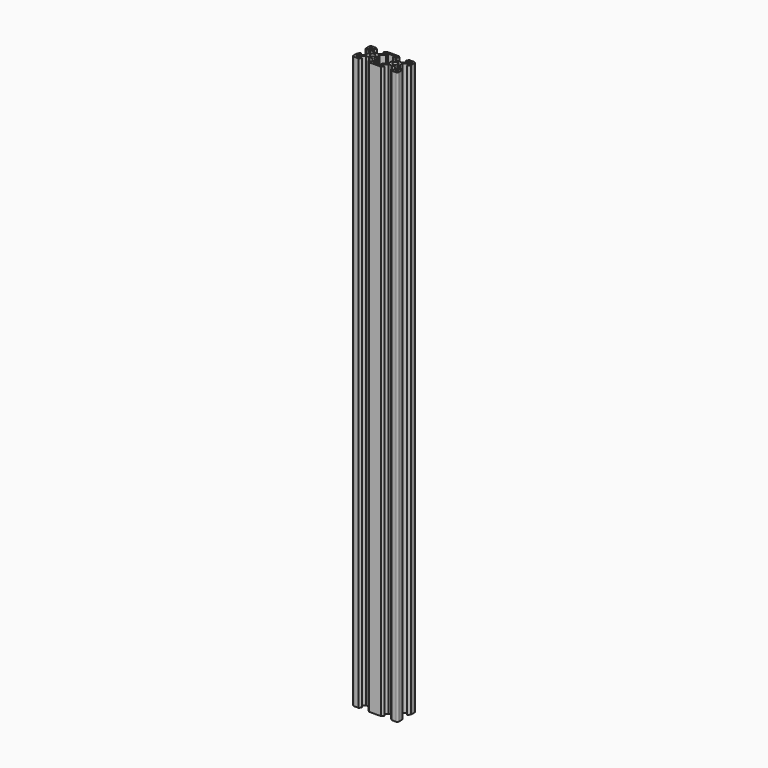
from build123d import *

# Parameters (mm, degrees)
F0_R     = 2.1
F1_DEPTH = 505


with BuildPart() as f1:
    # F0 (on Top) → F1 (new body)
    with BuildSketch(Plane.XY):
        with BuildLine():
            Line((4.64, -10), (8.5, -10))
            Line((8.5, -10), (11.5, -10))
            Line((11.5, -10), (15.36, -10))
            Line((15.36, -10), (17.16, -8.2))
            Line((17.16, -8.2), (14.50066, -8.2))
            Line((14.50066, -8.2), (14.50066, -6.56))
            Line((14.50066, -6.56), (17.16, -3.90066))
            Line((17.16, -3.90066), (19.75, -3.90066))
            Line((19.75, -3.90066), (20, -3.65066))
            Line((20, -3.65066), (20.25, -3.90066))
            Line((20.25, -3.90066), (22.84, -3.90066))
            Line((22.84, -3.90066), (25.49934, -6.56))
            Line((25.49934, -6.56), (25.49934, -8.2))
            Line((25.49934, -8.2), (22.84, -8.2))
            Line((22.84, -8.2), (24.64, -10))
            Line((24.64, -10), (28.5, -10))
            ThreePointArc((28.5, -10), (29.56066, -9.56066), (30, -8.5))
            Line((30, -8.5), (30, -4.64))
            Line((30, -4.64), (28.2, -2.84))
            Line((28.2, -2.84), (28.2, -5.49934))
            Line((28.2, -5.49934), (26.56, -5.49934))
            Line((26.56, -5.49934), (23.90066, -2.84))
            Line((23.90066, -2.84), (23.90066, -0.25))
            Line((23.90066, -0.25), (23.65066, 0))
            Line((23.65066, 0), (23.90066, 0.25))
            Line((23.90066, 0.25), (23.90066, 2.84))
            Line((23.90066, 2.84), (26.56, 5.49934))
            Line((26.56, 5.49934), (28.2, 5.49934))
            Line((28.2, 5.49934), (28.2, 2.84))
            Line((28.2, 2.84), (30, 4.64))
            Line((30, 4.64), (30, 8.5))
            ThreePointArc((30, 8.5), (29.56066, 9.56066), (28.5, 10))
            Line((28.5, 10), (24.64, 10))
            Line((24.64, 10), (22.84, 8.2))
            Line((22.84, 8.2), (25.49934, 8.2))
            Line((25.49934, 8.2), (25.49934, 6.56))
            Line((25.49934, 6.56), (22.84, 3.90066))
            Line((22.84, 3.90066), (20.25, 3.90066))
            Line((20.25, 3.90066), (20, 3.65066))
            Line((20, 3.65066), (19.75, 3.90066))
            Line((19.75, 3.90066), (17.16, 3.90066))
            Line((17.16, 3.90066), (14.50066, 6.56))
            Line((14.50066, 6.56), (14.50066, 8.2))
            Line((14.50066, 8.2), (17.16, 8.2))
            Line((17.16, 8.2), (15.36, 10))
            Line((15.36, 10), (11.5, 10))
            Line((11.5, 10), (8.5, 10))
            Line((8.5, 10), (4.64, 10))
            Line((4.64, 10), (2.84, 8.2))
            Line((2.84, 8.2), (5.49934, 8.2))
            Line((5.49934, 8.2), (5.49934, 6.56))
            Line((5.49934, 6.56), (2.84, 3.90066))
            Line((2.84, 3.90066), (0.25, 3.90066))
            Line((0.25, 3.90066), (0, 3.65066))
            Line((0, 3.65066), (-0.25, 3.90066))
            Line((-0.25, 3.90066), (-2.84, 3.90066))
            Line((-2.84, 3.90066), (-5.49934, 6.56))
            Line((-5.49934, 6.56), (-5.49934, 8.2))
            Line((-5.49934, 8.2), (-2.84, 8.2))
            Line((-2.84, 8.2), (-4.64, 10))
            Line((-4.64, 10), (-8.5, 10))
            ThreePointArc((-8.5, 10), (-9.56066, 9.56066), (-10, 8.5))
            Line((-10, 8.5), (-10, 4.64))
            Line((-10, 4.64), (-8.2, 2.84))
            Line((-8.2, 2.84), (-8.2, 5.49934))
            Line((-8.2, 5.49934), (-6.56, 5.49934))
            Line((-6.56, 5.49934), (-3.90066, 2.84))
            Line((-3.90066, 2.84), (-3.90066, 0.25))
            Line((-3.90066, 0.25), (-3.65066, 0))
            Line((-3.65066, 0), (-3.90066, -0.25))
            Line((-3.90066, -0.25), (-3.90066, -2.84))
            Line((-3.90066, -2.84), (-6.56, -5.49934))
            Line((-6.56, -5.49934), (-8.2, -5.49934))
            Line((-8.2, -5.49934), (-8.2, -2.84))
            Line((-8.2, -2.84), (-10, -4.64))
            Line((-10, -4.64), (-10, -8.5))
            ThreePointArc((-10, -8.5), (-9.56066, -9.56066), (-8.5, -10))
            Line((-8.5, -10), (-4.64, -10))
            Line((-4.64, -10), (-2.84, -8.2))
            Line((-2.84, -8.2), (-5.49934, -8.2))
            Line((-5.49934, -8.2), (-5.49934, -6.56))
            Line((-5.49934, -6.56), (-2.84, -3.90066))
            Line((-2.84, -3.90066), (-0.25, -3.90066))
            Line((-0.25, -3.90066), (0, -3.65066))
            Line((0, -3.65066), (0.25, -3.90066))
            Line((0.25, -3.90066), (2.84, -3.90066))
            Line((2.84, -3.90066), (5.49934, -6.56))
            Line((5.49934, -6.56), (5.49934, -8.2))
            Line((5.49934, -8.2), (2.84, -8.2))
            Line((2.84, -8.2), (4.64, -10))
        make_face()
        Polygon((-6.56934, -7.63), (-6.56934, -8.2), (-8.2, -8.2), (-8.2, -6.56934), (-7.63, -6.56934), align=None, mode=Mode.SUBTRACT)
        Polygon((27.63, -6.56934), (28.2, -6.56934), (28.2, -8.2), (26.56934, -8.2), (26.56934, -7.63), align=None, mode=Mode.SUBTRACT)
        Circle(F0_R, mode=Mode.SUBTRACT)
        Polygon((-7.63, 6.56934), (-8.2, 6.56934), (-8.2, 8.2), (-6.56934, 8.2), (-6.56934, 7.63), align=None, mode=Mode.SUBTRACT)
        Polygon((3.90066, 2.84), (6.56, 5.49934), (6.99934, 5.93868), (6.99934, 8.2), (13.00066, 8.2), (13.00066, 5.93868), (13.44, 5.49934), (16.09934, 2.84), (16.09934, 0.25), (16.34934, 0), (16.09934, -0.25), (16.09934, -2.84), (13.44, -5.49934), (13.00066, -5.93868), (13.00066, -8.2), (6.99934, -8.2), (6.99934, -5.93868), (6.56, -5.49934), (3.90066, -2.84), (3.90066, -0.25), (3.65066, 0), (3.90066, 0.25), align=None, mode=Mode.SUBTRACT)
        with Locations((20, 0)):
            Circle(F0_R, mode=Mode.SUBTRACT)
        Polygon((28.2, 8.2), (28.2, 6.56934), (27.63, 6.56934), (26.56934, 7.63), (26.56934, 8.2), align=None, mode=Mode.SUBTRACT)
    extrude(amount=F1_DEPTH)


solid = f1.part
